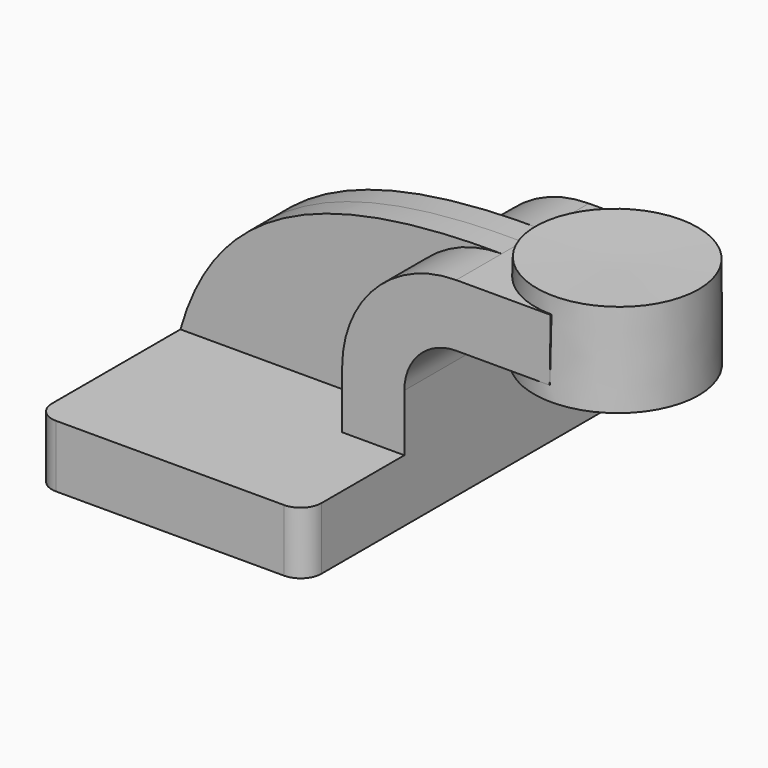
from build123d import *

# Parameters (mm, degrees)
F1_DEPTH = 63.5
F2_DEPTH = 25.4
F3_DEPTH = 7.9375
F5_R     = 6.35


with BuildPart() as f1:
    # F0 (on Front) → F1 (new body, symmetric)
    with BuildSketch(Plane.XZ):
        Polygon((-41.275, -9.525), (41.275, -9.525), (41.275, 9.525), (22.225, 9.525), (-41.275, 9.525), align=None)
    extrude(amount=F1_DEPTH, both=True)

    # F0 (on Front) → F2 (join, symmetric)
    with BuildSketch(Plane.XZ):
        Polygon((86.0701791132, 61.9252), (60.325, 61.9252), (60.325, 42.8752), (85.7941830205, 42.8752), align=None)
        with BuildLine():
            Line((22.225, 9.525), (41.275, 9.525))
            Line((41.275, 9.525), (41.275, 27.0002))
            ThreePointArc((41.275, 27.0002), (45.9246798487, 38.2255201513), (57.15, 42.8752))
            Line((57.15, 42.8752), (60.325, 42.8752))
            Line((60.325, 42.8752), (60.325, 61.9252))
            Line((60.325, 61.9252), (57.15, 61.9252))
            ThreePointArc((57.15, 61.9252), (32.4542956671, 51.6959043329), (22.225, 27.0002))
            Line((22.225, 27.0002), (22.225, 9.525))
        make_face()
    extrude(amount=F2_DEPTH, both=True)

    # F0 (on Front) → F3 (join, symmetric)
    with BuildSketch(Plane.XZ):
        with BuildLine():
            add(Edge.make_bspline(
                [(-41.275, 9.525), (-31.1370120476, 45.302397555), (-2.1070703483, 62.4784893272), (57.15, 61.9252)],
                knots=[0, 0, 0, 0, 111.5045361635, 111.5045361635, 111.5045361635, 111.5045361635], degree=3))
            Line((-41.275, 9.525), (22.225, 9.525))
            Line((22.225, 9.525), (22.225, 27.0002))
            ThreePointArc((22.225, 27.0002), (32.4542956671, 51.6959043329), (57.15, 61.9252))
        make_face()
    extrude(amount=F3_DEPTH, both=True)

    # F0 (on Front) → F4 (revolve)
    with BuildSketch(Plane.XZ):
        Polygon((86.1389941389, 66.675), (86.0701791132, 61.9252), (85.7941830205, 42.8752), (85.725, 38.1), (111.125, 38.1), (111.125, 66.675), align=None)
    revolve(axis=Axis((85.9319970695, 0, 52.3875), (0.0144864636, 0, 0.9998950657)))

    # F5
    f5_edges = [f1.edges().sort_by_distance(p)[0] for p in [
        (41.275, -63.5, 0),
        (-41.275, -63.5, 0),
        (-41.275, 63.5, 0),
        (41.275, 63.5, 0),
    ]]
    fillet(f5_edges, radius=F5_R)


solid = f1.part
